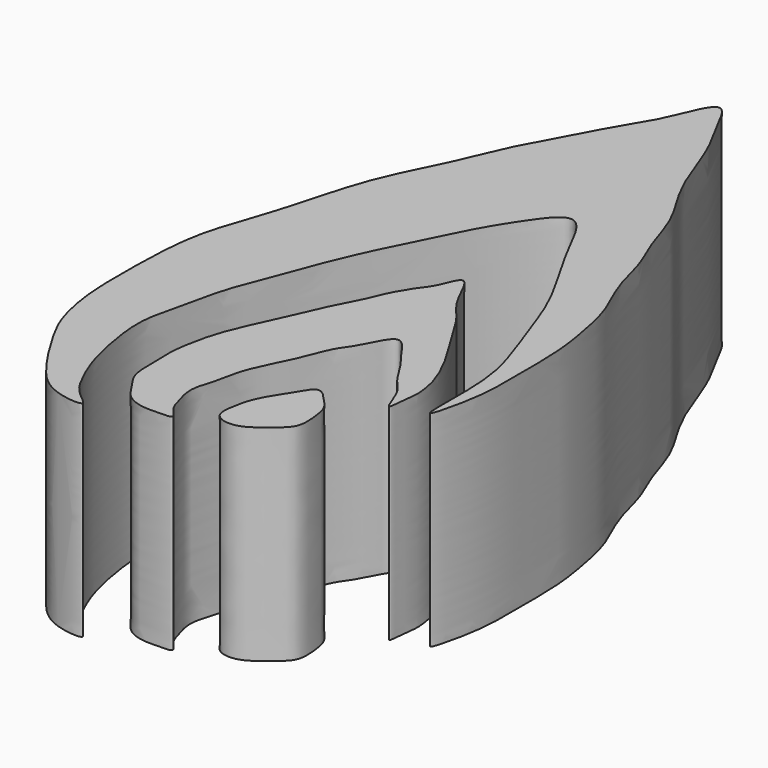
from build123d import *

# Parameters (mm, degrees)
F1_DEPTH = 25


with BuildPart() as f1:
    # F0 (on Top) → F1 (new body)
    with BuildSketch(Plane.XY):
        with BuildLine():
            add(Edge.make_bspline(
                [(23.8765422255, 42.785000056), (22.2991422848, 43.3005583581), (20.0435365383, 45.3010252644), (16.3316570512, 51.2781131098), (14.4149128642, 54.955110149), (13.2955097251, 60.4665041707), (13.2980122726, 65.7905496321), (13.3340788014, 70.5719340691), (13.820288528, 76.960577282), (16.0721626489, 82.8223379686), (17.4638632207, 87.7630564992), (19.7122212195, 96.2394441532), (23.5191140462, 103.070159621), (25.7313905719, 109.0387703496), (28.5011676233, 113.6389940495), (31.1929015847, 119.1300309211), (33.6319350647, 122.466631688), (36.0267822724, 129.817219944), (38.5597247169, 124.2823101399), (40.7290189321, 120.7421829145), (42.4913647922, 115.5276339656), (44.3300034383, 111.3080585198), (47.3256483077, 106.9267146196), (48.6817233667, 101.6655469244), (50.5890917458, 97.9889277176), (51.5755970418, 92.9325827079), (53.9044617544, 88.737448957), (54.9200540226, 83.7448445187), (55.6801059156, 79.2718156308), (55.6560398769, 72.265872542), (55.7264870899, 67.2435651501), (53.5362944087, 58.1944893754), (54.2678480333, 70.0134724284), (52.6169780687, 75.6415858013), (50.6143646908, 81.0126324381), (48.5944516824, 86.8689199495), (45.2967121195, 92.2440510083), (43.0731446826, 96.3964486311), (39.8959764337, 102.9660903959), (36.1930068564, 97.9101640015), (33.7130482092, 93.9125724544), (31.4685289462, 89.1190824159), (29.2073077477, 84.8475577002), (26.3893294942, 78.386275042), (24.237565999, 72.0854192085), (22.8909994243, 69.113392629), (21.944954572, 63.9988132596), (20.6961965584, 59.7862798318), (21.0901365835, 55.2969915535), (22.181555365, 50.1534976875), (23.6476558178, 46.7490282141), (25.0701296485, 44.0614092603), (28.2526871106, 42.0632882177), (25.1824620109, 42.3581724837), (23.8765422255, 42.785000056)],
                knots=[0, 0, 0, 0, 0.0180677585, 0.0400971426, 0.057524581, 0.077189136, 0.0966544941, 0.115081765, 0.1363775549, 0.1573006318, 0.1764763839, 0.20128322, 0.2251484395, 0.2461605474, 0.2657970126, 0.2861630766, 0.3047367597, 0.3240795935, 0.3402398893, 0.3586449779, 0.3780944124, 0.3962642959, 0.4156071178, 0.4350986169, 0.4522693456, 0.4711380519, 0.4896873511, 0.5083943201, 0.5265499551, 0.5483520253, 0.5692925022, 0.5880546748, 0.6110169346, 0.6332904698, 0.6529687279, 0.6740439265, 0.6949124415, 0.7143355896, 0.7337317747, 0.7511772473, 0.7704460554, 0.7894880615, 0.8080479149, 0.8306772218, 0.8522849317, 0.867563898, 0.8864833288, 0.9042274954, 0.9220214591, 0.9413542662, 0.9575399218, 0.9728326903, 0.985041813, 1, 1, 1, 1], degree=3))
        make_face()
    extrude(amount=F1_DEPTH)


with BuildPart() as f1b:
    # F0 (on Top) → F1, piece 2 (new body)
    with BuildSketch(Plane.XY):
        with BuildLine():
            add(Edge.make_bspline(
                [(35.3947728872, 45.7368567586), (35.3223463016, 45.4997797149), (33.7274967303, 45.5133882573), (31.5955848794, 45.42805212), (29.4980043241, 46.4067819631), (28.5389291551, 48.3149683251), (27.0119013794, 50.0501268442), (27.0917302878, 53.563171863), (26.9248734123, 56.3585008613), (27.5062337674, 59.5010962115), (28.1573955617, 62.0870449062), (29.6682483372, 65.5945688857), (31.1501298076, 68.6037501657), (32.5480219462, 72.2327913431), (34.538261144, 75.6736375592), (35.4828352988, 78.421606298), (37.1759693447, 81.127138316), (38.2918383041, 82.3683960972), (39.4617313718, 86.4064211249), (41.5280906081, 80.7611839625), (43.7777652965, 78.6853428459), (45.406744804, 75.8026014319), (46.8324689413, 73.5381770316), (48.5572095425, 70.746614579), (49.7395729365, 68.2567119882), (50.4822353228, 66.0219442923), (50.7522741096, 63.7250029583), (50.4443760736, 62.3522510001), (50.3167399868, 58.8877082102), (49.0751529598, 63.3467713625), (47.4924112836, 64.4745307326), (45.963183854, 67.30158655), (44.6901752726, 68.8113100355), (43.8666137068, 70.0627081564), (41.9512316654, 72.5550734973), (40.2711903156, 68.1491724255), (38.6093350383, 66.3747970646), (37.5805245033, 63.2054633453), (36.2412651485, 60.5785507173), (34.4841141325, 56.9090359301), (34.2357226856, 54.2326223717), (33.0152663496, 51.2087190488), (33.8650600913, 48.5991449496), (34.2908314914, 46.9933468702), (35.4673216273, 45.9743336556), (35.3947728872, 45.7368567586)],
                knots=[0, 0, 0, 0, 0.0170961016, 0.0390300999, 0.0597610493, 0.0800918656, 0.1012354869, 0.1272234874, 0.1514848256, 0.1763872135, 0.1997935129, 0.2272528975, 0.2534820955, 0.2815090798, 0.3097065567, 0.3342533368, 0.3588220395, 0.3788184103, 0.400823869, 0.4294599259, 0.4563067106, 0.4813366192, 0.504790573, 0.5304261655, 0.5540652826, 0.5759443961, 0.5968037198, 0.6155179266, 0.6349395676, 0.6590350216, 0.6807363139, 0.7055635852, 0.7253981828, 0.7436420966, 0.7637920287, 0.7904313549, 0.8140211574, 0.8390141508, 0.8639816669, 0.8922048424, 0.9157367176, 0.9408239383, 0.9637455728, 0.9828750642, 1, 1, 1, 1], degree=3))
        make_face()
    extrude(amount=F1_DEPTH)


with BuildPart() as f1c:
    # F0 (on Top) → F1, piece 3 (new body)
    with BuildSketch(Plane.XY):
        with BuildLine():
            add(Edge.make_bspline(
                [(42.7923239768, 58.6438775063), (43.2700465248, 58.7178897349), (44.3748488916, 57.5211520022), (45.6539735884, 56.2003501316), (45.9988930132, 54.27808387), (46.1415145178, 51.9956912972), (45.3117550118, 50.7087279007), (43.5305867686, 49.3766207286), (42.3226250819, 48.3716804446), (40.4302591085, 47.7500956115), (38.1899648125, 48.5825975804), (38.6990424493, 51.324963007), (39.0644748156, 53.0065824532), (40.1127522166, 55.0394651569), (41.3645251742, 56.7691036743), (42.2690838789, 58.56281337), (42.7923239768, 58.6438775063)],
                knots=[0, 0, 0, 0, 0.0684856033, 0.1388684279, 0.2090089763, 0.2842932062, 0.3458262137, 0.4205005484, 0.4848289883, 0.5549695533, 0.6249087015, 0.7034254765, 0.7721787553, 0.8467340594, 0.9249890676, 1, 1, 1, 1], degree=3))
        make_face()
    extrude(amount=F1_DEPTH)


solid = Compound([f1.part, f1b.part, f1c.part])
